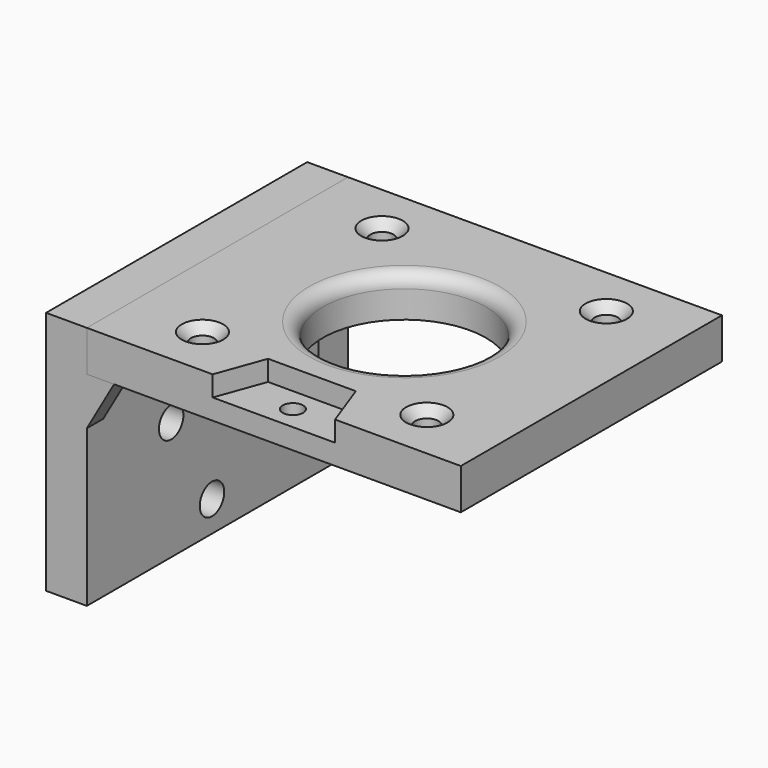
from build123d import *

# Parameters (mm, degrees)
BINDER_W            = 48
BINDER_H            = 55
PAD_DEPTH           = 6
HOLE_D              = 3.4
HOLE_CSINK_D        = 6.1
HOLE_CSINK_ANGLE    = 90
SKETCH005_R         = 12
POCKET_DEPTH        = 6.001
FILLET_R            = 2
POCKET001_DEPTH     = 3
SKETCH007_R         = 1.5
POCKET002_DEPTH     = 3.001
SKETCH002_W         = 6
SKETCH002_H         = 48
PAD001_DEPTH        = 6
PAD001_DEPTH_BACK   = 30
PAD002_DEPTH        = 3
HOLE004_D           = 4.5
HOLE004_DEPTH       = 25
HOLE004_CSINK_D     = 6.1
HOLE004_CSINK_ANGLE = 90
SKETCH019_W         = 5
SKETCH019_H         = 16
PAD003_DEPTH        = 10


with BuildPart() as body001:
    # Binder → Pad (new body)
    with BuildSketch(Plane(origin=(0, 0, 0), x_dir=(0, 1, 0), z_dir=(0, 0, 1))):
        Rectangle(BINDER_W, BINDER_H)
    extrude(amount=PAD_DEPTH)

    # Hole (through all)
    with Locations(Plane.XY.offset(6)):
        with Locations((-16.5, 16.5), (-16.5, -16.5), (16.5, -16.5), (16.5, 16.5)):
            CounterSinkHole(HOLE_D / 2, HOLE_CSINK_D / 2, counter_sink_angle=HOLE_CSINK_ANGLE)

    # Sketch005 (on Face5 of Hole) → Pocket (cut, through all)
    with BuildSketch(Plane.XY.offset(6)):
        Circle(SKETCH005_R)
    extrude(amount=-POCKET_DEPTH, mode=Mode.SUBTRACT)

    # Fillet
    fillet_edges = [body001.edges().sort_by_distance(p)[0] for p in [
        (-12, 0, 6),
    ]]
    fillet(fillet_edges, radius=FILLET_R)

    # Sketch006 (on Face1 of Fillet) → Pocket001 (cut)
    with BuildSketch(Plane.XY.offset(6)):
        Polygon((-9, -24), (-6.452208, -17), (6.452208, -17), (9, -24), align=None)
    extrude(amount=-POCKET001_DEPTH, mode=Mode.SUBTRACT)

    # Sketch007 (on Face15 of Pocket001) → Pocket002 (cut, through all)
    with BuildSketch(Plane.XY.offset(3)):
        with Locations((0, -20.5)):
            Circle(SKETCH007_R)
    extrude(amount=-POCKET002_DEPTH, mode=Mode.SUBTRACT)


with BuildPart() as body002:
    # Sketch002 (on Face1 of Binder001) → Pad001 (new body, two sides)
    with BuildSketch(Plane.XY) as pad001_sk:
        with Locations((-30.5, 0)):
            Rectangle(SKETCH002_W, SKETCH002_H)
    extrude(amount=PAD001_DEPTH)
    extrude(pad001_sk.sketch, amount=-PAD001_DEPTH_BACK)

    # Sketch003 (on Face3 of Pad001) → Pad002 (join)
    with BuildSketch(Plane.XZ.offset(24)):
        Polygon((-27.5, 0), (-27.5, -7), (-23.5, 0), align=None)
    pad002 = extrude(amount=-PAD002_DEPTH)

    # Mirrored: Pad002 across XZ
    add(pad002.mirror(Plane.XZ))

    # Hole004
    with Locations(Plane(origin=(-21, -191, 0), x_dir=(0, -1, 0), z_dir=(1, 0, 0))):
        with Locations((-189.999737, 25.501831), (-182.5, 12.5)):
            CounterSinkHole(HOLE004_D / 2, HOLE004_CSINK_D / 2, depth=HOLE004_DEPTH, counter_sink_angle=HOLE004_CSINK_ANGLE)


with BuildPart() as body005:
    # Sketch019 (on Face1 of Binder012) → Pad003 (new body)
    with BuildSketch(Plane.XY):
        with Locations((-21.5, 0)):
            Rectangle(SKETCH019_W, SKETCH019_H)
    extrude(amount=-PAD003_DEPTH)


solid = Compound([body001.part, body002.part, body005.part])
